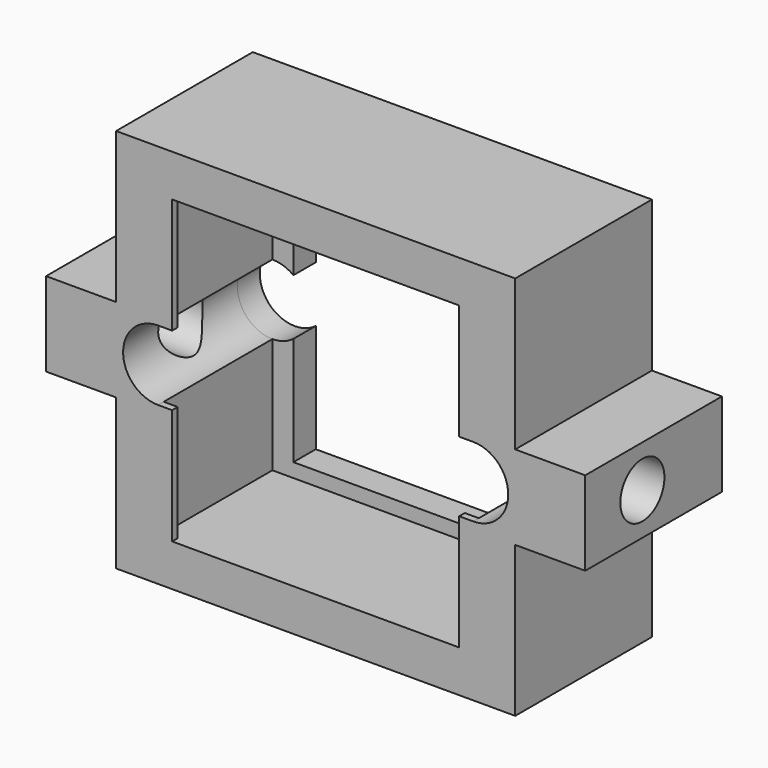
from build123d import *

# Parameters (mm, degrees)
F1_DEPTH  = 10.2
F2_W      = 28.5
F2_H      = 27.5
F2_W_2    = 19.5
F2_H_2    = 19.5
F3_DEPTH  = 2
F4_R      = 1.9685
F5_DEPTH  = 38.5
F6_W      = 5
F6_H      = 6
F7_DEPTH  = 2
F8_W      = 5
F8_H      = 6
F9_DEPTH  = 2
F10_W     = 1
F10_H     = 8.25
F11_DEPTH = 0.5
F12_R     = 2.5
F13_DEPTH = 12.201


with BuildPart() as f1:
    # F0 (on Front) → F1 (new body)
    with BuildSketch(Plane.XZ):
        with BuildLine():
            Line((-14.25, 3), (-19.25, 3))
            Line((-19.25, 3), (-19.25, 0))
            Line((-19.25, 0), (-13.75, 0))
            ThreePointArc((-13.75, 0), (-13.017766953, 1.767766953), (-11.25, 2.5))
            Line((-11.25, 2.5), (-11.25, 10.75))
            Line((-11.25, 10.75), (0, 10.75))
            Line((0, 10.75), (0, 13.75))
            Line((0, 13.75), (-14.25, 13.75))
            Line((-14.25, 13.75), (-14.25, 3))
        make_face()
        with BuildLine():
            Line((-13.75, 0), (-19.25, 0))
            Line((-19.25, 0), (-19.25, -3))
            Line((-19.25, -3), (-14.25, -3))
            Line((-14.25, -3), (-14.25, -13.75))
            Line((-14.25, -13.75), (0, -13.75))
            Line((0, -13.75), (0, -10.75))
            Line((0, -10.75), (-11.25, -10.75))
            Line((-11.25, -10.75), (-11.25, -2.5))
            ThreePointArc((-11.25, -2.5), (-13.017766953, -1.767766953), (-13.75, 0))
        make_face()
        with BuildLine():
            Line((14.25, 13.75), (0, 13.75))
            Line((0, 13.75), (0, 10.75))
            Line((0, 10.75), (11.25, 10.75))
            Line((11.25, 10.75), (11.25, 2.5))
            ThreePointArc((11.25, 2.5), (13.017766953, 1.767766953), (13.75, 0))
            Line((13.75, 0), (19.25, 0))
            Line((19.25, 0), (19.25, 3))
            Line((19.25, 3), (14.25, 3))
            Line((14.25, 3), (14.25, 13.75))
        make_face()
        with BuildLine():
            Line((11.25, -10.75), (0, -10.75))
            Line((0, -10.75), (0, -13.75))
            Line((0, -13.75), (14.25, -13.75))
            Line((14.25, -13.75), (14.25, -3))
            Line((14.25, -3), (19.25, -3))
            Line((19.25, -3), (19.25, 0))
            Line((19.25, 0), (13.75, 0))
            ThreePointArc((13.75, 0), (13.017766953, -1.767766953), (11.25, -2.5))
            Line((11.25, -2.5), (11.25, -10.75))
        make_face()
    extrude(amount=F1_DEPTH)

    # F2 (on face) → F3 (join)
    with BuildSketch(Plane(origin=(0, 0, 0), x_dir=(-1, 0, 0), z_dir=(0, 1, 0))):
        Rectangle(F2_W, F2_H)
        Rectangle(F2_W_2, F2_H_2, mode=Mode.SUBTRACT)
    extrude(amount=F3_DEPTH)

    # F4 (on face) → F5 (cut, through all)
    with BuildSketch(Plane(origin=(-19.25, 0, 0), x_dir=(0, -1, 0), z_dir=(-1, 0, 0))):
        with Locations((5.1, 0)):
            Circle(F4_R)
    extrude(amount=-F5_DEPTH, mode=Mode.SUBTRACT)

    # F6 (on face) → F7 (join, through all)
    with BuildSketch(Plane(origin=(0, 0, 0), x_dir=(-1, 0, 0), z_dir=(0, 1, 0))):
        with Locations((-16.75, 0)):
            Rectangle(F6_W, F6_H)
    extrude(amount=F7_DEPTH)

    # F8 (on face) → F9 (join, through all)
    with BuildSketch(Plane(origin=(0, 0, 0), x_dir=(-1, 0, 0), z_dir=(0, 1, 0))):
        with Locations((16.75, 0)):
            Rectangle(F8_W, F8_H)
    extrude(amount=F9_DEPTH)

    # F10 (on face) → F11 (join)
    with BuildSketch(Plane.XZ.offset(10.2)):
        with Locations((-10.75, 6.625)):
            Rectangle(F10_W, F10_H)
        with Locations((10.75, 6.625)):
            Rectangle(F10_W, F10_H)
        with Locations((-10.75, -6.625)):
            Rectangle(F10_W, F10_H)
        with Locations((10.75, -6.625)):
            Rectangle(F10_W, F10_H)
    extrude(amount=-F11_DEPTH)

    # F12 (on face) → F13 (cut, through all)
    with BuildSketch(Plane.XZ.offset(10.2)):
        with Locations((-11.25, 0)):
            Circle(F12_R)
        with Locations((11.25, 0)):
            Circle(F12_R)
    extrude(amount=-F13_DEPTH, mode=Mode.SUBTRACT)


solid = f1.part
